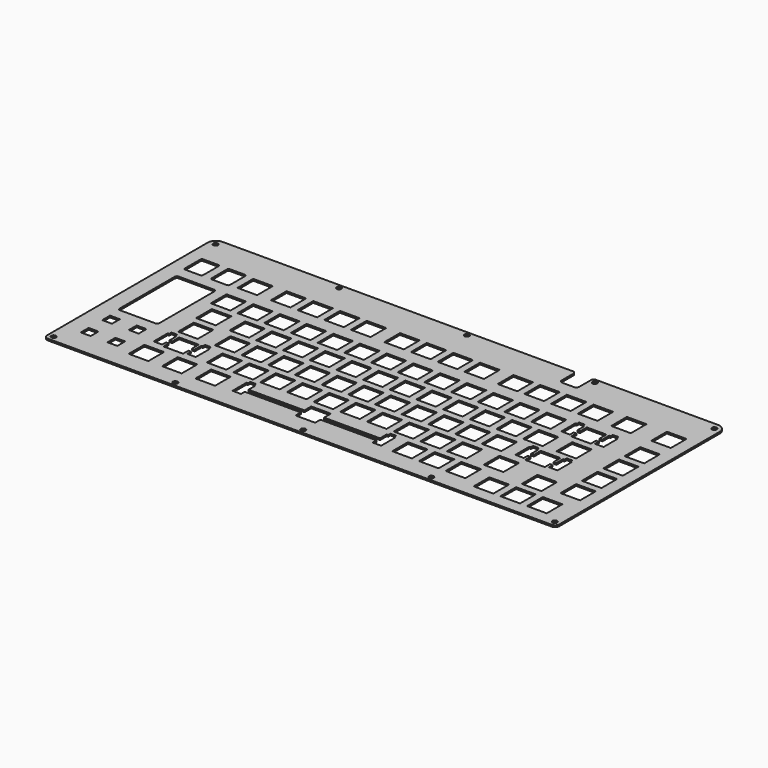
from build123d import *

# Parameters (mm, degrees)
SKETCH001_R     = 1.7
PAD_DEPTH       = 1.2
SKETCH_W        = 14
SKETCH_H        = 14
POCKET_DEPTH    = 5
SKETCH002_W     = 14
SKETCH002_H     = 14
POCKET001_DEPTH = 5
SKETCH003_W     = 14
SKETCH003_H     = 14
POCKET002_DEPTH = 5
SKETCH004_W     = 14
SKETCH004_H     = 14
POCKET003_DEPTH = 5
SKETCH005_W     = 14
SKETCH005_H     = 14
POCKET004_DEPTH = 5
SKETCH006_W     = 14
SKETCH006_H     = 14
POCKET005_DEPTH = 5
POCKET006_DEPTH = 5
POCKET007_DEPTH = 5
SKETCH009_W     = 7
SKETCH009_H     = 7
POCKET008_DEPTH = 5
POCKET009_DEPTH = 5
POCKET010_DEPTH = 5
POCKET011_DEPTH = 5
POCKET012_DEPTH = 5
POCKET013_DEPTH = 5


with BuildPart() as part:
    # Sketch001 → Pad (new body)
    with BuildSketch(Plane.XY.offset(2.9)):
        with BuildLine():
            Line((-6.5, 0.5), (-6.5, -142.5))
            ThreePointArc((-6.5, -142.5), (-5.62132, -144.62132), (-3.5, -145.5))
            Line((-3.5, -145.5), (355.925, -145.5))
            ThreePointArc((355.925, -145.5), (358.04632, -144.62132), (358.925, -142.5))
            Line((358.925, -142.5), (358.925, 0.5))
            ThreePointArc((358.925, 0.5), (357.167641, 4.742641), (352.925, 6.5))
            Line((352.925, 6.5), (-0.5, 6.5))
            ThreePointArc((-0.5, 6.5), (-4.742641, 4.742641), (-6.5, 0.5))
        make_face()
        with Locations((-1.742629, 1.742635)):
            Circle(SKETCH001_R, mode=Mode.SUBTRACT)
        with Locations((354.167629, 1.742635)):
            Circle(SKETCH001_R, mode=Mode.SUBTRACT)
        with Locations((84.85625, 3.5)):
            Circle(SKETCH001_R, mode=Mode.SUBTRACT)
        with Locations((176.2125, 3.5)):
            Circle(SKETCH001_R, mode=Mode.SUBTRACT)
        with Locations((267.56875, 3.5)):
            Circle(SKETCH001_R, mode=Mode.SUBTRACT)
        with Locations((-2.621309, -141.621315)):
            Circle(SKETCH001_R, mode=Mode.SUBTRACT)
        with Locations((355.046378, -141.621312)):
            Circle(SKETCH001_R, mode=Mode.SUBTRACT)
        with Locations((84.85625, -142.5)):
            Circle(SKETCH001_R, mode=Mode.SUBTRACT)
        with Locations((176.2125, -142.5)):
            Circle(SKETCH001_R, mode=Mode.SUBTRACT)
        with Locations((267.56875, -142.5)):
            Circle(SKETCH001_R, mode=Mode.SUBTRACT)
    extrude(amount=PAD_DEPTH)

    # Sketch → Pocket (cut)
    with BuildSketch(Plane.XY.offset(4.1)):
        with Locations((47.625, -24.7)):
            Rectangle(SKETCH_W, SKETCH_H)
        with Locations((71.4375, -24.7)):
            Rectangle(SKETCH_W, SKETCH_H)
        with Locations((90.4875, -24.7)):
            Rectangle(SKETCH_W, SKETCH_H)
        with Locations((109.5375, -24.7)):
            Rectangle(SKETCH_W, SKETCH_H)
        with Locations((128.5875, -24.7)):
            Rectangle(SKETCH_W, SKETCH_H)
        with Locations((152.4, -24.7)):
            Rectangle(SKETCH_W, SKETCH_H)
        with Locations((171.45, -24.7)):
            Rectangle(SKETCH_W, SKETCH_H)
        with Locations((190.5, -24.7)):
            Rectangle(SKETCH_W, SKETCH_H)
        with Locations((209.55, -24.7)):
            Rectangle(SKETCH_W, SKETCH_H)
        with Locations((233.3625, -24.7)):
            Rectangle(SKETCH_W, SKETCH_H)
        with Locations((252.4125, -24.7)):
            Rectangle(SKETCH_W, SKETCH_H)
        with Locations((271.4625, -24.7)):
            Rectangle(SKETCH_W, SKETCH_H)
        with Locations((290.5125, -24.7)):
            Rectangle(SKETCH_W, SKETCH_H)
        with Locations((314.325, -24.7)):
            Rectangle(SKETCH_W, SKETCH_H)
        with Locations((342.9, -24.7)):
            Rectangle(SKETCH_W, SKETCH_H)
    extrude(amount=-POCKET_DEPTH, mode=Mode.SUBTRACT)

    # Sketch002 → Pocket001 (cut)
    with BuildSketch(Plane.XY.offset(4.1)):
        with Locations((47.625, -48.5125)):
            Rectangle(SKETCH002_W, SKETCH002_H)
        with Locations((66.675, -48.5125)):
            Rectangle(SKETCH002_W, SKETCH002_H)
        with Locations((85.725, -48.5125)):
            Rectangle(SKETCH002_W, SKETCH002_H)
        with Locations((104.775, -48.5125)):
            Rectangle(SKETCH002_W, SKETCH002_H)
        with Locations((123.825, -48.5125)):
            Rectangle(SKETCH002_W, SKETCH002_H)
        with Locations((142.875, -48.5125)):
            Rectangle(SKETCH002_W, SKETCH002_H)
        with Locations((161.925, -48.5125)):
            Rectangle(SKETCH002_W, SKETCH002_H)
        with Locations((180.975, -48.5125)):
            Rectangle(SKETCH002_W, SKETCH002_H)
        with Locations((200.025, -48.5125)):
            Rectangle(SKETCH002_W, SKETCH002_H)
        with Locations((219.075, -48.5125)):
            Rectangle(SKETCH002_W, SKETCH002_H)
        with Locations((238.125, -48.5125)):
            Rectangle(SKETCH002_W, SKETCH002_H)
        with Locations((257.175, -48.5125)):
            Rectangle(SKETCH002_W, SKETCH002_H)
        with Locations((276.225, -48.5125)):
            Rectangle(SKETCH002_W, SKETCH002_H)
        with Locations((304.8, -48.5125)):
            Rectangle(SKETCH002_W, SKETCH002_H)
        with Locations((342.9, -48.5125)):
            Rectangle(SKETCH002_W, SKETCH002_H)
    extrude(amount=-POCKET001_DEPTH, mode=Mode.SUBTRACT)

    # Sketch003 → Pocket002 (cut)
    with BuildSketch(Plane.XY.offset(4.1)):
        with Locations((52.3875, -67.5625)):
            Rectangle(SKETCH003_W, SKETCH003_H)
        with Locations((76.2, -67.5625)):
            Rectangle(SKETCH003_W, SKETCH003_H)
        with Locations((95.25, -67.5625)):
            Rectangle(SKETCH003_W, SKETCH003_H)
        with Locations((114.3, -67.5625)):
            Rectangle(SKETCH003_W, SKETCH003_H)
        with Locations((133.35, -67.5625)):
            Rectangle(SKETCH003_W, SKETCH003_H)
        with Locations((152.4, -67.5625)):
            Rectangle(SKETCH003_W, SKETCH003_H)
        with Locations((171.45, -67.5625)):
            Rectangle(SKETCH003_W, SKETCH003_H)
        with Locations((190.5, -67.5625)):
            Rectangle(SKETCH003_W, SKETCH003_H)
        with Locations((209.55, -67.5625)):
            Rectangle(SKETCH003_W, SKETCH003_H)
        with Locations((228.6, -67.5625)):
            Rectangle(SKETCH003_W, SKETCH003_H)
        with Locations((247.65, -67.5625)):
            Rectangle(SKETCH003_W, SKETCH003_H)
        with Locations((266.7, -67.5625)):
            Rectangle(SKETCH003_W, SKETCH003_H)
        with Locations((285.75, -67.5625)):
            Rectangle(SKETCH003_W, SKETCH003_H)
        with Locations((309.5625, -67.5625)):
            Rectangle(SKETCH003_W, SKETCH003_H)
        with Locations((342.9, -67.5625)):
            Rectangle(SKETCH003_W, SKETCH003_H)
    extrude(amount=-POCKET002_DEPTH, mode=Mode.SUBTRACT)

    # Sketch004 → Pocket003 (cut)
    with BuildSketch(Plane.XY.offset(4.1)):
        with Locations((54.76875, -86.6125)):
            Rectangle(SKETCH004_W, SKETCH004_H)
        with Locations((80.9625, -86.6125)):
            Rectangle(SKETCH004_W, SKETCH004_H)
        with Locations((100.0125, -86.6125)):
            Rectangle(SKETCH004_W, SKETCH004_H)
        with Locations((119.0625, -86.6125)):
            Rectangle(SKETCH004_W, SKETCH004_H)
        with Locations((138.1125, -86.6125)):
            Rectangle(SKETCH004_W, SKETCH004_H)
        with Locations((157.1625, -86.6125)):
            Rectangle(SKETCH004_W, SKETCH004_H)
        with Locations((176.2125, -86.6125)):
            Rectangle(SKETCH004_W, SKETCH004_H)
        with Locations((195.2625, -86.6125)):
            Rectangle(SKETCH004_W, SKETCH004_H)
        with Locations((214.3125, -86.6125)):
            Rectangle(SKETCH004_W, SKETCH004_H)
        with Locations((233.3625, -86.6125)):
            Rectangle(SKETCH004_W, SKETCH004_H)
        with Locations((252.4125, -86.6125)):
            Rectangle(SKETCH004_W, SKETCH004_H)
        with Locations((271.4625, -86.6125)):
            Rectangle(SKETCH004_W, SKETCH004_H)
        with Locations((302.41875, -86.6125)):
            Rectangle(SKETCH004_W, SKETCH004_H)
        with Locations((342.9, -86.6125)):
            Rectangle(SKETCH004_W, SKETCH004_H)
    extrude(amount=-POCKET003_DEPTH, mode=Mode.SUBTRACT)

    # Sketch005 → Pocket004 (cut)
    with BuildSketch(Plane.XY.offset(4.1)):
        with Locations((59.53125, -105.6625)):
            Rectangle(SKETCH005_W, SKETCH005_H)
        with Locations((90.4875, -105.6625)):
            Rectangle(SKETCH005_W, SKETCH005_H)
        with Locations((109.5375, -105.6625)):
            Rectangle(SKETCH005_W, SKETCH005_H)
        with Locations((128.5875, -105.6625)):
            Rectangle(SKETCH005_W, SKETCH005_H)
        with Locations((147.6375, -105.6625)):
            Rectangle(SKETCH005_W, SKETCH005_H)
        with Locations((166.6875, -105.6625)):
            Rectangle(SKETCH005_W, SKETCH005_H)
        with Locations((185.7375, -105.6625)):
            Rectangle(SKETCH005_W, SKETCH005_H)
        with Locations((204.7875, -105.6625)):
            Rectangle(SKETCH005_W, SKETCH005_H)
        with Locations((223.8375, -105.6625)):
            Rectangle(SKETCH005_W, SKETCH005_H)
        with Locations((242.8875, -105.6625)):
            Rectangle(SKETCH005_W, SKETCH005_H)
        with Locations((261.9375, -105.6625)):
            Rectangle(SKETCH005_W, SKETCH005_H)
        with Locations((288.13125, -105.6625)):
            Rectangle(SKETCH005_W, SKETCH005_H)
        with Locations((319.0875, -110.425)):
            Rectangle(SKETCH005_W, SKETCH005_H)
        with Locations((342.9, -105.6625)):
            Rectangle(SKETCH005_W, SKETCH005_H)
    extrude(amount=-POCKET004_DEPTH, mode=Mode.SUBTRACT)

    # Sketch006 → Pocket005 (cut)
    with BuildSketch(Plane.XY.offset(4.1)):
        with Locations((50.00625, -124.7125)):
            Rectangle(SKETCH006_W, SKETCH006_H)
        with Locations((73.81875, -124.7125)):
            Rectangle(SKETCH006_W, SKETCH006_H)
        with Locations((97.63125, -124.7125)):
            Rectangle(SKETCH006_W, SKETCH006_H)
        with Locations((169.06875, -124.7125)):
            Rectangle(SKETCH006_W, SKETCH006_H)
        with Locations((238.125, -124.7125)):
            Rectangle(SKETCH006_W, SKETCH006_H)
        with Locations((257.175, -124.7125)):
            Rectangle(SKETCH006_W, SKETCH006_H)
        with Locations((276.225, -124.7125)):
            Rectangle(SKETCH006_W, SKETCH006_H)
        with Locations((300.0375, -129.475)):
            Rectangle(SKETCH006_W, SKETCH006_H)
        with Locations((319.0875, -129.475)):
            Rectangle(SKETCH006_W, SKETCH006_H)
        with Locations((338.1375, -129.475)):
            Rectangle(SKETCH006_W, SKETCH006_H)
    extrude(amount=-POCKET005_DEPTH, mode=Mode.SUBTRACT)

    # Sketch007 → Pocket006 (cut)
    with BuildSketch(Plane.XY.offset(4.1)):
        with BuildLine():
            Line((22.075, -17.95), (22.075, -31.45))
            ThreePointArc((22.075, -31.45), (22.441117, -32.333883), (23.325, -32.7))
            Line((23.325, -32.7), (33.825, -32.7))
            ThreePointArc((33.825, -32.7), (34.708883, -32.333883), (35.075, -31.45))
            Line((35.075, -31.45), (35.075, -17.95))
            ThreePointArc((35.075, -17.95), (34.708883, -17.066117), (33.825, -16.7))
            Line((33.825, -16.7), (23.325, -16.7))
            ThreePointArc((23.325, -16.7), (22.441117, -17.066117), (22.075, -17.95))
        make_face()
        with BuildLine():
            Line((3.025, -17.95), (3.025, -31.45))
            ThreePointArc((3.025, -31.45), (3.391117, -32.333883), (4.275, -32.7))
            Line((4.275, -32.7), (14.775, -32.7))
            ThreePointArc((14.775, -32.7), (15.658883, -32.333883), (16.025, -31.45))
            Line((16.025, -31.45), (16.025, -17.95))
            ThreePointArc((16.025, -17.95), (15.658883, -17.066117), (14.775, -16.7))
            Line((14.775, -16.7), (4.275, -16.7))
            ThreePointArc((4.275, -16.7), (3.391117, -17.066117), (3.025, -17.95))
        make_face()
    extrude(amount=-POCKET006_DEPTH, mode=Mode.SUBTRACT)

    # Sketch008 → Pocket007 (cut)
    with BuildSketch(Plane.XY.offset(4.1)):
        with BuildLine():
            Line((4.9, -42.9625), (4.9, -92.1625))
            ThreePointArc((4.9, -92.1625), (5.33934, -93.22316), (6.4, -93.6625))
            Line((6.4, -93.6625), (31.7, -93.6625))
            ThreePointArc((31.7, -93.6625), (32.76066, -93.22316), (33.2, -92.1625))
            Line((33.2, -92.1625), (33.2, -42.9625))
            ThreePointArc((33.2, -42.9625), (32.76066, -41.90184), (31.7, -41.4625))
            Line((31.7, -41.4625), (6.4, -41.4625))
            ThreePointArc((6.4, -41.4625), (5.33934, -41.90184), (4.9, -42.9625))
        make_face()
    extrude(amount=-POCKET007_DEPTH, mode=Mode.SUBTRACT)

    # Sketch009 → Pocket008 (cut)
    with BuildSketch(Plane.XY.offset(4.1)):
        with Locations((9.525, -124.7125)):
            Rectangle(SKETCH009_W, SKETCH009_H)
        with Locations((28.575, -124.7125)):
            Rectangle(SKETCH009_W, SKETCH009_H)
        with Locations((28.575, -105.6625)):
            Rectangle(SKETCH009_W, SKETCH009_H)
        with Locations((9.525, -105.6625)):
            Rectangle(SKETCH009_W, SKETCH009_H)
    extrude(amount=-POCKET008_DEPTH, mode=Mode.SUBTRACT)

    # Sketch010 → Pocket009 (cut)
    with BuildSketch(Plane.XY.offset(4.1)):
        Polygon((116.01875, -117.7925), (116.01875, -130.3925), (122.11875, -130.3925), (122.11875, -127.0025), (216.01875, -127.0025), (216.01875, -130.3925), (222.11875, -130.3925), (222.11875, -117.7925), (221.06875, -117.7925), (221.06875, -115.7925), (217.06875, -115.7925), (217.06875, -117.7925), (216.01875, -117.7925), (216.01875, -123.8025), (122.11875, -123.8025), (122.11875, -117.7925), (121.06875, -117.7925), (121.06875, -115.7925), (117.06875, -115.7925), (117.06875, -117.7925), align=None)
    extrude(amount=-POCKET009_DEPTH, mode=Mode.SUBTRACT)

    # Sketch011 → Pocket010 (cut)
    with BuildSketch(Plane.XY.offset(4.1)):
        Polygon((44.48125, -98.7425), (44.48125, -111.3425), (50.58125, -111.3425), (50.58125, -107.9525), (68.48125, -107.9525), (68.48125, -111.3425), (74.58125, -111.3425), (74.58125, -98.7425), (73.53125, -98.7425), (73.53125, -96.7425), (69.53125, -96.7425), (69.53125, -98.7425), (68.48125, -98.7425), (68.48125, -104.7525), (50.58125, -104.7525), (50.58125, -98.7425), (49.53125, -98.7425), (49.53125, -96.7425), (45.53125, -96.7425), (45.53125, -98.7425), align=None)
    extrude(amount=-POCKET010_DEPTH, mode=Mode.SUBTRACT)

    # Sketch012 → Pocket011 (cut)
    with BuildSketch(Plane.XY.offset(4.1)):
        Polygon((287.36875, -79.6925), (287.36875, -92.2925), (293.46875, -92.2925), (293.46875, -88.9025), (311.36875, -88.9025), (311.36875, -92.2925), (317.46875, -92.2925), (317.46875, -79.6925), (316.41875, -79.6925), (316.41875, -77.6925), (312.41875, -77.6925), (312.41875, -79.6925), (311.36875, -79.6925), (311.36875, -85.7025), (293.46875, -85.7025), (293.46875, -79.6925), (292.41875, -79.6925), (292.41875, -77.6925), (288.41875, -77.6925), (288.41875, -79.6925), align=None)
    extrude(amount=-POCKET011_DEPTH, mode=Mode.SUBTRACT)

    # Sketch013 → Pocket012 (cut)
    with BuildSketch(Plane.XY.offset(4.1)):
        Polygon((289.75, -41.5925), (289.75, -54.1925), (295.85, -54.1925), (295.85, -50.8025), (313.75, -50.8025), (313.75, -54.1925), (319.85, -54.1925), (319.85, -41.5925), (318.8, -41.5925), (318.8, -39.5925), (314.8, -39.5925), (314.8, -41.5925), (313.75, -41.5925), (313.75, -47.6025), (295.85, -47.6025), (295.85, -41.5925), (294.8, -41.5925), (294.8, -39.5925), (290.8, -39.5925), (290.8, -41.5925), align=None)
    extrude(amount=-POCKET012_DEPTH, mode=Mode.SUBTRACT)

    # Sketch014 → Pocket013 (cut)
    with BuildSketch(Plane.XY.offset(5)):
        with BuildLine():
            Line((253.425, -8), (261.925, -8))
            ThreePointArc((261.925, -8), (263.339214, -7.414214), (263.925, -6))
            Line((263.925, -6), (263.925, 4.5))
            ThreePointArc((265.925, 6.5), (264.510786, 5.914214), (263.925, 4.5))
            Line((265.925, 6.5), (398.556656, 6.5))
            Line((398.556656, 6.5), (398.556656, 82.324766))
            Line((398.556656, 82.324766), (-27.364742, 82.324766))
            Line((-27.364742, 82.324766), (-27.364742, 6.5))
            Line((249.425, 6.5), (-27.364742, 6.5))
            ThreePointArc((251.425, 4.5), (250.839214, 5.914214), (249.425, 6.5))
            Line((251.425, -6), (251.425, 4.5))
            ThreePointArc((251.425, -6), (252.010786, -7.414214), (253.425, -8))
        make_face()
    extrude(amount=-POCKET013_DEPTH, mode=Mode.SUBTRACT)


solid = part.part
